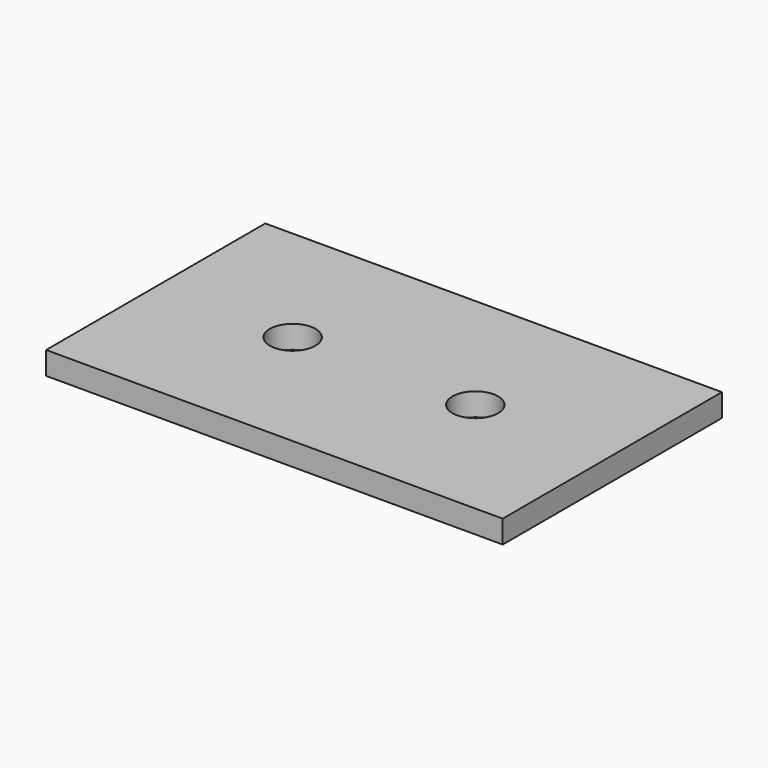
from build123d import *

# Parameters (mm, degrees)
SKETCH_W  = 50
SKETCH_H  = 30
SKETCH_R  = 2.5
PAD_DEPTH = 2.5


with BuildPart() as part:
    # Sketch → Pad (new body)
    with BuildSketch(Plane.XY):
        with Locations((25, 15)):
            Rectangle(SKETCH_W, SKETCH_H)
        with Locations((15, 15)):
            Circle(SKETCH_R, mode=Mode.SUBTRACT)
        with Locations((35, 15)):
            Circle(SKETCH_R, mode=Mode.SUBTRACT)
    extrude(amount=PAD_DEPTH)


solid = part.part
